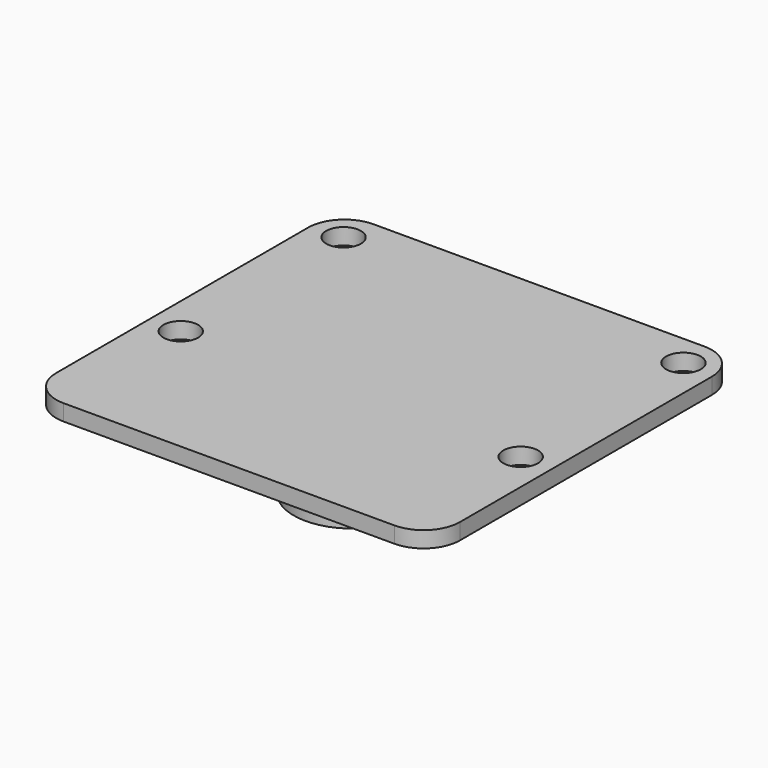
from build123d import *

# Parameters (mm, degrees)
F0_R     = 1.075
F1_DEPTH = 1
F2_W     = 8.43
F2_H     = 8.43
F3_DEPTH = 2.25
F4_R     = 3.65
F5_DEPTH = 2.25
F7_R     = 2.9
F7_R_2   = 2.15
F8_DEPTH = 0.5
F9_R     = 0.1


with BuildPart() as f1:
    # F0 (on Top) → F1 (new body)
    with BuildSketch(Plane.XY):
        with BuildLine():
            ThreePointArc((12.5, 9.75), (11.84099, 11.34099), (10.25, 12))
            Line((10.25, 12), (-10.25, 12))
            ThreePointArc((-10.25, 12), (-11.84099, 11.34099), (-12.5, 9.75))
            Line((-12.5, 9.75), (-12.5, -9.75))
            ThreePointArc((-12.5, -9.75), (-11.84099, -11.34099), (-10.25, -12))
            Line((-10.25, -12), (10.25, -12))
            ThreePointArc((10.25, -12), (11.84099, -11.34099), (12.5, -9.75))
            Line((12.5, -9.75), (12.5, 9.75))
        make_face()
        with Locations((-10.525, -2.575)):
            Circle(F0_R, mode=Mode.SUBTRACT)
        with Locations((10.525, -2.575)):
            Circle(F0_R, mode=Mode.SUBTRACT)
        with Locations((-10.525, 10.025)):
            Circle(F0_R, mode=Mode.SUBTRACT)
        with Locations((10.525, 10.025)):
            Circle(F0_R, mode=Mode.SUBTRACT)
    extrude(amount=F1_DEPTH)

    # F2 (on face) → F3 (join)
    with BuildSketch(Plane(origin=(0, 0, 0), x_dir=(1, 0, 0), z_dir=(0, 0, -1))):
        with Locations((0, 2.425)):
            Rectangle(F2_W, F2_H)
    extrude(amount=F3_DEPTH)

    # F4 (on face) → F5 (join)
    with BuildSketch(Plane(origin=(0, 0, -2.25), x_dir=(1, 0, 0), z_dir=(0, 0, -1))):
        with Locations((0, 2.425)):
            Circle(F4_R)
    extrude(amount=F5_DEPTH)

    # F7 (on face) → F8 (cut)
    with BuildSketch(Plane(origin=(0, 0, -4.5), x_dir=(1, 0, 0), z_dir=(0, 0, -1))):
        with Locations((0, 2.425)):
            Circle(F7_R)
        with Locations((0, 2.425)):
            Circle(F7_R_2, mode=Mode.SUBTRACT)
    extrude(amount=-F8_DEPTH, mode=Mode.SUBTRACT)

    # F9
    f9_edges = [f1.edges().sort_by_distance(p)[0] for p in [
        (-2.9, -2.425, -4),
        (-2.9, -2.425, -4.5),
        (0, 1.79, -2.25),
        (4.215, -2.425, -2.25),
        (0, -6.64, -2.25),
        (-4.215, -2.425, -2.25),
    ]]
    fillet(f9_edges, radius=F9_R)


solid = f1.part
